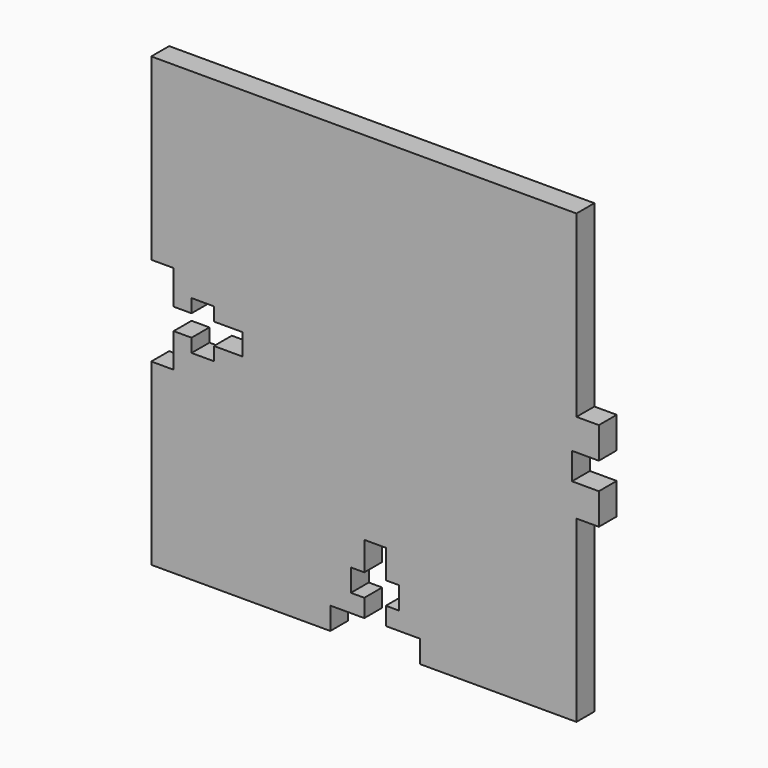
from build123d import *

# Parameters (mm, degrees)
F0_W     = 63.5
F0_H     = 63.5
F1_DEPTH = 3.175
F2_W     = 3.175
F2_H     = 25.4
F3_DEPTH = 25.4


with BuildPart() as f1:
    # F0 (on Front) → F1 (new body)
    with BuildSketch(Plane.XZ):
        Rectangle(F0_W, F0_H)
    extrude(amount=F1_DEPTH)

    # F2 (on face) → F3 (cut)
    with BuildSketch(Plane.XZ.offset(3.175)):
        with Locations((30.1625, 19.05)):
            Rectangle(F2_W, F2_H)
        with Locations((30.1625, -19.05)):
            Rectangle(F2_W, F2_H)
        Polygon((31.75, 1.905), (27.94, 1.905), (27.94, -1.905), (31.75, -1.905), (31.75, 0), align=None)
        Polygon((-6.35, -31.75), (0, -31.75), (6.35, -31.75), (6.35, -28.575), (1.524, -28.575), (1.524, -26.035), (3.429, -26.035), (3.429, -22.86), (1.524, -22.86), (1.524, -18.796), (0, -18.796), (-1.524, -18.796), (-1.524, -22.86), (-3.429, -22.86), (-3.429, -26.035), (-1.524, -26.035), (-1.524, -28.575), (-6.35, -28.575), align=None)
        Polygon((-31.75, 6.35), (-31.75, 0), (-31.75, -6.35), (-28.575, -6.35), (-28.575, -1.524), (-26.035, -1.524), (-26.035, -3.429), (-22.86, -3.429), (-22.86, -1.524), (-18.796, -1.524), (-18.796, 0), (-18.796, 1.524), (-22.86, 1.524), (-22.86, 3.429), (-26.035, 3.429), (-26.035, 1.524), (-28.575, 1.524), (-28.575, 6.35), align=None)
    extrude(amount=-F3_DEPTH, mode=Mode.SUBTRACT)


solid = f1.part
